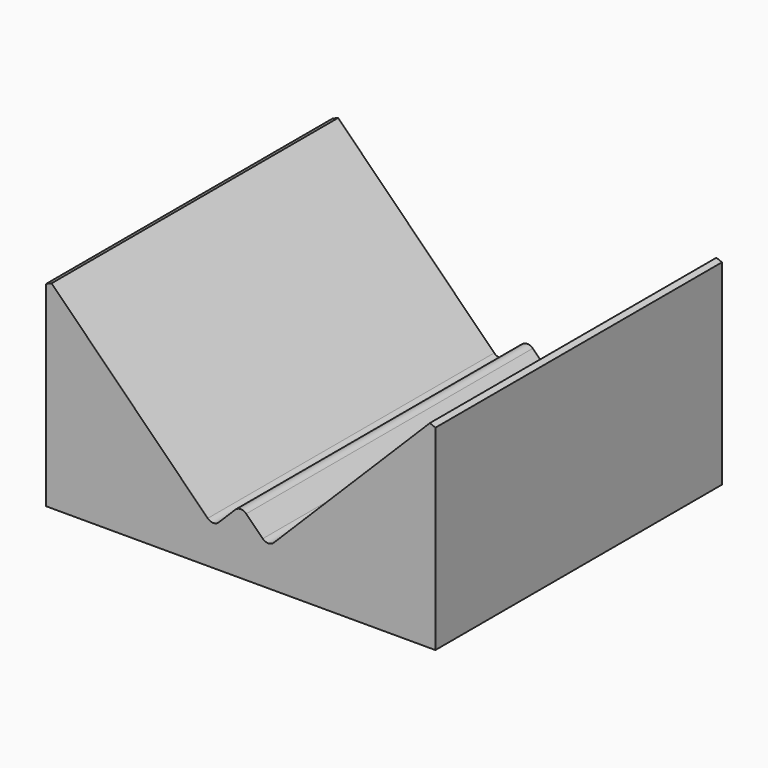
from build123d import *

# Parameters (mm, degrees)
F1_DEPTH = 4.6
F2_SIZE  = 0.2
F3_SIZE  = 0.2
F4_R     = 0.2


with BuildPart() as f1:
    # F0 (on Front) → F1 (new body, symmetric)
    with BuildSketch(Plane.XZ):
        Polygon((0, 5.228932), (0, 0), (10, 0), (10, 5.228932), (9.313961, 4.542893), (5.707107, 0.936039), (5, 1.643146), (4.292893, 0.936039), (0.686039, 4.542893), align=None)
    extrude(amount=F1_DEPTH, both=True)

    # F2
    f2_edges = [f1.edges().sort_by_distance(p)[0] for p in [
        (0, 0, 5.228932),
    ]]
    chamfer(f2_edges, length=F2_SIZE)

    # F3
    f3_edges = [f1.edges().sort_by_distance(p)[0] for p in [
        (10, 0, 5.228932),
    ]]
    chamfer(f3_edges, length=F3_SIZE)

    # F4
    f4_edges = [f1.edges().sort_by_distance(p)[0] for p in [
        (4.292893, 0, 0.936039),
        (5, 0, 1.643146),
        (5.707107, 0, 0.936039),
    ]]
    fillet(f4_edges, radius=F4_R)


solid = f1.part
